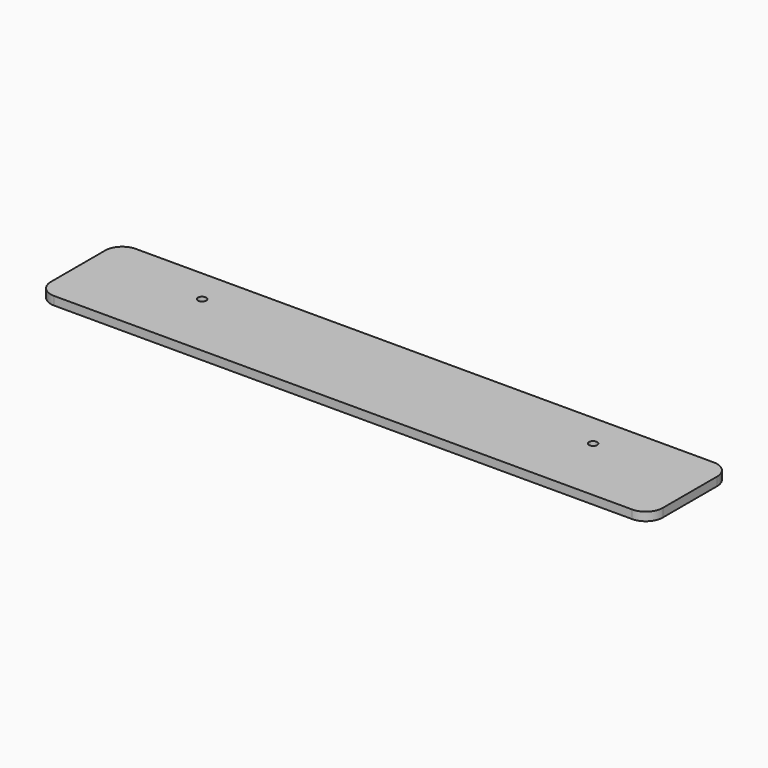
from build123d import *

# Parameters (mm, degrees)
SKETCH_R  = 1.55
PAD_DEPTH = 3.175


with BuildPart() as part:
    # Sketch → Pad (new body)
    with BuildSketch(Plane.XY):
        with BuildLine():
            Line((-107.95, 19.05), (107.95, 19.05))
            ThreePointArc((114.3, 12.7), (112.440128, 17.190128), (107.95, 19.05))
            Line((114.3, 12.7), (114.3, -12.7))
            ThreePointArc((107.95, -19.05), (112.440128, -17.190128), (114.3, -12.7))
            Line((107.95, -19.05), (-107.95, -19.05))
            ThreePointArc((-114.3, -12.7), (-112.440128, -17.190128), (-107.95, -19.05))
            Line((-114.3, -12.7), (-114.3, 12.7))
            ThreePointArc((-107.95, 19.05), (-112.440128, 17.190128), (-114.3, 12.7))
        make_face()
        with Locations((-73.025, 6.35)):
            Circle(SKETCH_R, mode=Mode.SUBTRACT)
        with Locations((73.025, 6.35)):
            Circle(SKETCH_R, mode=Mode.SUBTRACT)
    extrude(amount=PAD_DEPTH)


solid = part.part
